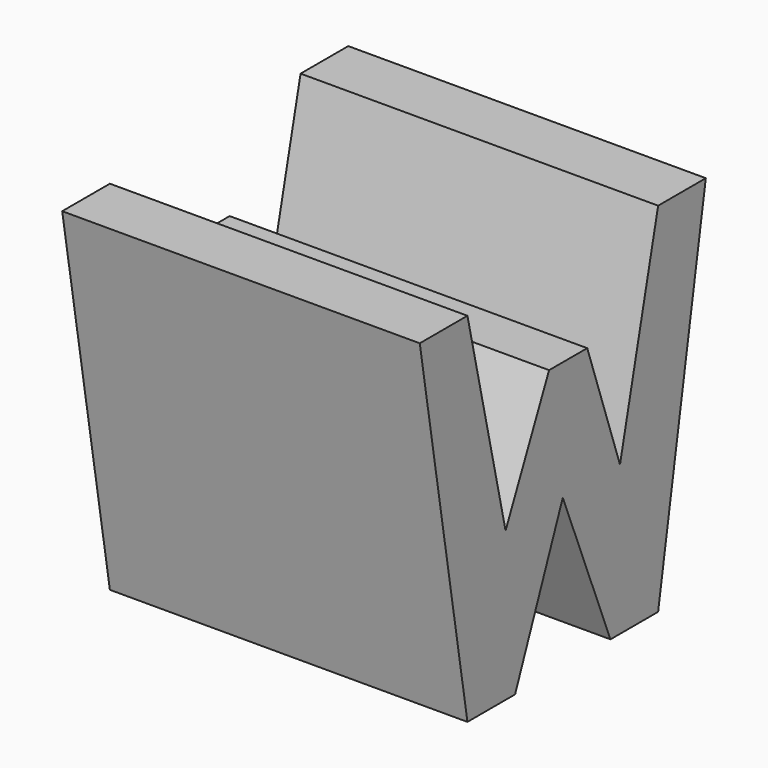
from build123d import *

# Parameters (mm, degrees)
F0_W     = 38.1
F0_H     = 38.1
F1_DEPTH = 38.1
F5_DEPTH = 38.1


with BuildPart() as f1:
    # F0 (on Front) → F1 (new body)
    with BuildSketch(Plane.XZ):
        with Locations((19.05, 19.05)):
            Rectangle(F0_W, F0_H)
    extrude(amount=F1_DEPTH)

    # F4 (on offset) → F5 (cut)
    with BuildSketch(Plane.YZ.offset(38.1)):
        Polygon((-11.43, 15.875), (-6.35, 38.1), (-31.75, 38.1), (-26.67, 15.875), (-20.874323, 28.575), (-15.794323, 28.575), align=None)
        Polygon((-31.75, 0), (-38.1, 38.1), (-38.1, 0), align=None)
        Polygon((-25.4, 0), (-12.7, 0), (-19.05, 15.875), align=None)
        Polygon((-6.35, 0), (0, 0), (0, 38.1), align=None)
    extrude(amount=-F5_DEPTH, mode=Mode.SUBTRACT)


solid = f1.part
